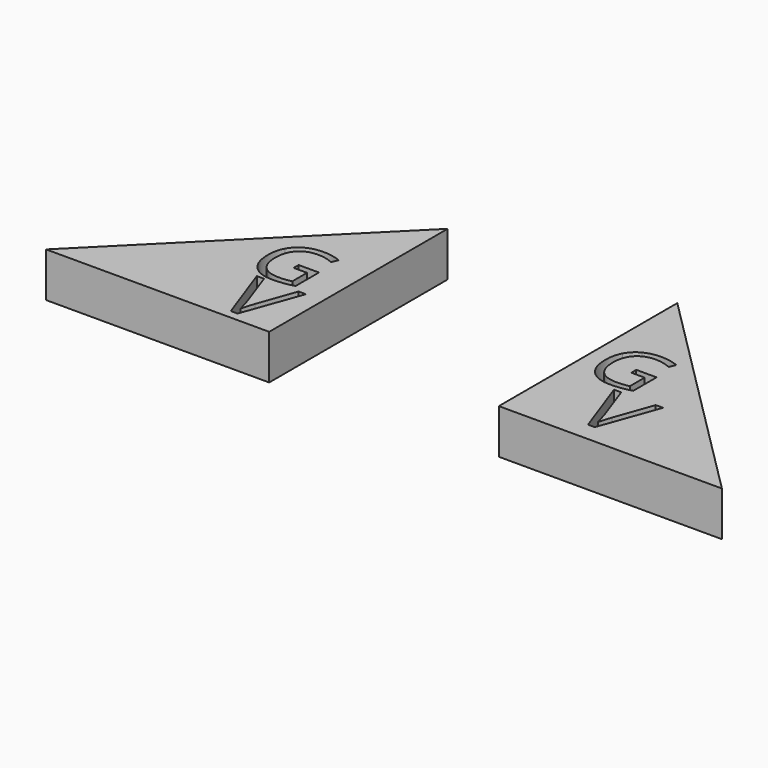
from build123d import *

# Parameters (mm, degrees)
F1_DEPTH = 12.7
F3_DEPTH = 25.4


with BuildPart() as f1:
    # F0 (on Top) → F1 (new body, symmetric)
    with BuildSketch(Plane.XY):
        Polygon((0, 127), (0, 0), (127, 0), align=None)
        with BuildLine():
            Line((46.1859858478, 22.7941921039), (53.8473209017, 44.3545392191))
            Line((53.8473209017, 44.3545392191), (58.037572162, 44.3545392191))
            Line((58.037572162, 44.3545392191), (45.9584940982, 10.8251906931))
            Line((45.9584940982, 10.8251906931), (42.1058112406, 10.8251906931))
            Line((42.1058112406, 10.8251906931), (30.0854407251, 44.3545392191))
            Line((30.0854407251, 44.3545392191), (34.2169844371, 44.3545392191))
            Line((34.2169844371, 44.3545392191), (41.9223501522, 22.6621001202))
            add(Edge.make_bspline(
                [(41.9223501522, 22.6621001202), (43.2506084326, 18.9194939157), (44.0284834476, 15.3897025739)],
                knots=[0, 0, 0, 1, 1, 1], degree=2))
            add(Edge.make_bspline(
                [(44.0284834476, 15.3897025739), (44.8577275674, 19.1029550042), (46.1859858478, 22.7941921039)],
                knots=[0, 0, 0, 1, 1, 1], degree=2))
        make_face(mode=Mode.SUBTRACT)
        with BuildLine():
            Line((25.8864431332, 61.8936152508), (25.8864431332, 65.434705466))
            Line((25.8864431332, 65.434705466), (37.4639444053, 65.434705466))
            Line((37.4639444053, 65.434705466), (37.4639444053, 48.8698581855))
            add(Edge.make_bspline(
                [(37.4639444053, 48.8698581855), (34.7578059882, 48.0050866803), (31.9622084498, 47.5615185375)],
                knots=[0, 0, 0, 1, 1, 1], degree=2))
            add(Edge.make_bspline(
                [(31.9622084498, 47.5615185375), (29.1666109115, 47.1179503947), (25.4838770876, 47.1179503947)],
                knots=[0, 0, 0, 1, 1, 1], degree=2))
            add(Edge.make_bspline(
                [(25.4838770876, 47.1179503947), (17.7531180282, 47.1179503947), (13.4441703558, 51.7213676746)],
                knots=[0, 0, 0, 1, 1, 1], degree=2))
            add(Edge.make_bspline(
                [(13.4441703558, 51.7213676746), (9.1352226834, 56.3247849544), (9.1352226834, 64.6146635214)],
                knots=[0, 0, 0, 1, 1, 1], degree=2))
            add(Edge.make_bspline(
                [(9.1352226834, 64.6146635214), (9.1352226834, 69.9300263077), (11.2673317393, 73.9258670559)],
                knots=[0, 0, 0, 1, 1, 1], degree=2))
            add(Edge.make_bspline(
                [(11.2673317393, 73.9258670559), (13.3994407952, 77.921707804), (17.4064639335, 80.0277246162)],
                knots=[0, 0, 0, 1, 1, 1], degree=2))
            add(Edge.make_bspline(
                [(17.4064639335, 80.0277246162), (21.4134870718, 82.1337414285), (26.7884892722, 82.1337414285)],
                knots=[0, 0, 0, 1, 1, 1], degree=2))
            add(Edge.make_bspline(
                [(26.7884892722, 82.1337414285), (32.2454956671, 82.1337414285), (36.9495544583, 80.1358210544)],
                knots=[0, 0, 0, 1, 1, 1], degree=2))
            Line((36.9495544583, 80.1358210544), (35.4138395439, 76.6394603997))
            add(Edge.make_bspline(
                [(35.4138395439, 76.6394603997), (30.7992398739, 78.5926512132), (26.5350217621, 78.5926512132)],
                knots=[0, 0, 0, 1, 1, 1], degree=2))
            add(Edge.make_bspline(
                [(26.5350217621, 78.5926512132), (20.3176128368, 78.5926512132), (16.8212521821, 74.8912800724)],
                knots=[0, 0, 0, 1, 1, 1], degree=2))
            add(Edge.make_bspline(
                [(16.8212521821, 74.8912800724), (13.3248915275, 71.1899089317), (13.3248915275, 64.6146635214)],
                knots=[0, 0, 0, 1, 1, 1], degree=2))
            add(Edge.make_bspline(
                [(13.3248915275, 64.6146635214), (13.3248915275, 57.7188562602), (16.6907909637, 54.1554012646)],
                knots=[0, 0, 0, 1, 1, 1], degree=2))
            add(Edge.make_bspline(
                [(16.6907909637, 54.1554012646), (20.0566903998, 50.5919462691), (26.5797513227, 50.5919462691)],
                knots=[0, 0, 0, 1, 1, 1], degree=2))
            add(Edge.make_bspline(
                [(26.5797513227, 50.5919462691), (30.1208415379, 50.5919462691), (33.4979233642, 51.4119882137)],
                knots=[0, 0, 0, 1, 1, 1], degree=2))
            Line((33.4979233642, 51.4119882137), (33.4979233642, 61.8936152508))
            Line((33.4979233642, 61.8936152508), (25.8864431332, 61.8936152508))
        make_face(mode=Mode.SUBTRACT)
    extrude(amount=F1_DEPTH, both=True)


with BuildPart() as f3:
    # F2 (on Top) → F3 (new body)
    with BuildSketch(Plane.XY):
        Polygon((-236.1308187246, -26.9698947668), (-109.1308187246, -26.9698947668), (-109.1308187246, 100.0301052332), align=None)
        with BuildLine():
            Line((-130.855597427, -10.0607340742), (-123.1942623731, 11.499613041))
            Line((-123.1942623731, 11.499613041), (-119.0040111128, 11.499613041))
            Line((-119.0040111128, 11.499613041), (-131.0830891766, -22.0297354849))
            Line((-131.0830891766, -22.0297354849), (-134.9357720342, -22.0297354849))
            Line((-134.9357720342, -22.0297354849), (-146.9561425497, 11.499613041))
            Line((-146.9561425497, 11.499613041), (-142.8245988377, 11.499613041))
            Line((-142.8245988377, 11.499613041), (-135.1192331226, -10.1928260579))
            add(Edge.make_bspline(
                [(-135.1192331226, -10.1928260579), (-133.7909748422, -13.9354322623), (-133.0130998272, -17.4652236042)],
                knots=[0, 0, 0, 1, 1, 1], degree=2))
            add(Edge.make_bspline(
                [(-133.0130998272, -17.4652236042), (-132.1838557074, -13.7519711739), (-130.855597427, -10.0607340742)],
                knots=[0, 0, 0, 1, 1, 1], degree=2))
        make_face(mode=Mode.SUBTRACT)
        with BuildLine():
            Line((-139.0917088209, 27.8897888809), (-139.0917088209, 31.4308790962))
            Line((-139.0917088209, 31.4308790962), (-127.5142075488, 31.4308790962))
            Line((-127.5142075488, 31.4308790962), (-127.5142075488, 14.8660318156))
            add(Edge.make_bspline(
                [(-127.5142075488, 14.8660318156), (-130.2203459659, 14.0012603104), (-133.0159435042, 13.5576921677)],
                knots=[0, 0, 0, 1, 1, 1], degree=2))
            add(Edge.make_bspline(
                [(-133.0159435042, 13.5576921677), (-135.8115410426, 13.1141240249), (-139.4942748665, 13.1141240249)],
                knots=[0, 0, 0, 1, 1, 1], degree=2))
            add(Edge.make_bspline(
                [(-139.4942748665, 13.1141240249), (-147.2250339258, 13.1141240249), (-151.5339815983, 17.7175413047)],
                knots=[0, 0, 0, 1, 1, 1], degree=2))
            add(Edge.make_bspline(
                [(-151.5339815983, 17.7175413047), (-155.8429292707, 22.3209585845), (-155.8429292707, 30.6108371516)],
                knots=[0, 0, 0, 1, 1, 1], degree=2))
            add(Edge.make_bspline(
                [(-155.8429292707, 30.6108371516), (-155.8429292707, 35.9261999379), (-153.7108202148, 39.922040686)],
                knots=[0, 0, 0, 1, 1, 1], degree=2))
            add(Edge.make_bspline(
                [(-153.7108202148, 39.922040686), (-151.5787111589, 43.9178814342), (-147.5716880206, 46.0238982464)],
                knots=[0, 0, 0, 1, 1, 1], degree=2))
            add(Edge.make_bspline(
                [(-147.5716880206, 46.0238982464), (-143.5646648823, 48.1299150586), (-138.1896626819, 48.1299150586)],
                knots=[0, 0, 0, 1, 1, 1], degree=2))
            add(Edge.make_bspline(
                [(-138.1896626819, 48.1299150586), (-132.732656287, 48.1299150586), (-128.0285974958, 46.1319946845)],
                knots=[0, 0, 0, 1, 1, 1], degree=2))
            Line((-128.0285974958, 46.1319946845), (-129.5643124102, 42.6356340299))
            add(Edge.make_bspline(
                [(-129.5643124102, 42.6356340299), (-134.1789120802, 44.5888248434), (-138.443130192, 44.5888248434)],
                knots=[0, 0, 0, 1, 1, 1], degree=2))
            add(Edge.make_bspline(
                [(-138.443130192, 44.5888248434), (-144.6605391173, 44.5888248434), (-148.156899772, 40.8874537026)],
                knots=[0, 0, 0, 1, 1, 1], degree=2))
            add(Edge.make_bspline(
                [(-148.156899772, 40.8874537026), (-151.6532604266, 37.1860825618), (-151.6532604266, 30.6108371516)],
                knots=[0, 0, 0, 1, 1, 1], degree=2))
            add(Edge.make_bspline(
                [(-151.6532604266, 30.6108371516), (-151.6532604266, 23.7150298903), (-148.2873609904, 20.1515748948)],
                knots=[0, 0, 0, 1, 1, 1], degree=2))
            add(Edge.make_bspline(
                [(-148.2873609904, 20.1515748948), (-144.9214615542, 16.5881198992), (-138.3984006314, 16.5881198992)],
                knots=[0, 0, 0, 1, 1, 1], degree=2))
            add(Edge.make_bspline(
                [(-138.3984006314, 16.5881198992), (-134.8573104162, 16.5881198992), (-131.4802285898, 17.4081618438)],
                knots=[0, 0, 0, 1, 1, 1], degree=2))
            Line((-131.4802285898, 17.4081618438), (-131.4802285898, 27.8897888809))
            Line((-131.4802285898, 27.8897888809), (-139.0917088209, 27.8897888809))
        make_face(mode=Mode.SUBTRACT)
    extrude(amount=F3_DEPTH)


solid = Compound([f1.part, f3.part])
